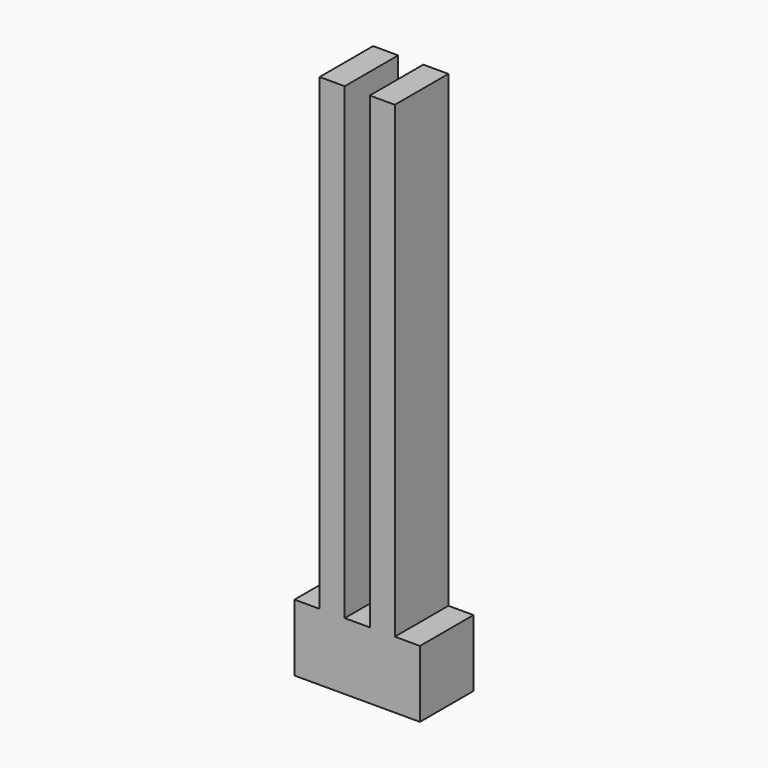
from build123d import *

# Parameters (mm, degrees)
F0_W     = 19.05
F0_H     = 50.8
F1_DEPTH = 50.8
F2_DEPTH = 406.4


with BuildPart() as f1:
    # F0 (on Top) → F1 (new body)
    with BuildSketch(Plane.XY):
        with Locations((-38.1, 0)):
            Rectangle(F0_W, F0_H)
        Rectangle(F0_W, F0_H)
        with Locations((19.05, 0)):
            Rectangle(F0_W, F0_H)
        with Locations((38.1, 0)):
            Rectangle(F0_W, F0_H)
        with Locations((-19.05, 0)):
            Rectangle(F0_W, F0_H)
    extrude(amount=F1_DEPTH)

    # F0 (on Top) → F2 (join)
    with BuildSketch(Plane.XY):
        with Locations((19.05, 0)):
            Rectangle(F0_W, F0_H)
        with Locations((-19.05, 0)):
            Rectangle(F0_W, F0_H)
    extrude(amount=F2_DEPTH)


solid = f1.part
